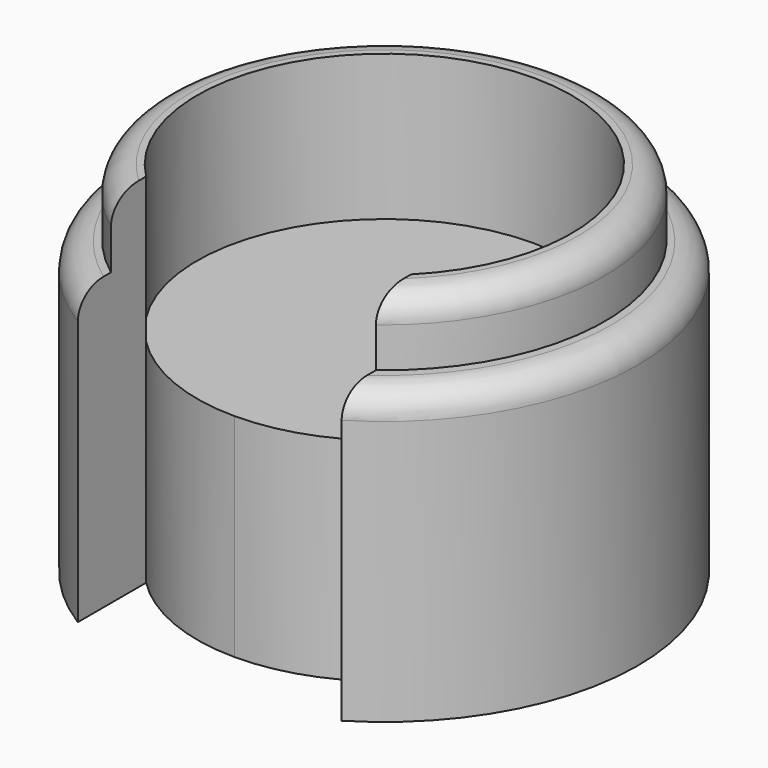
from build123d import *

# Parameters (mm, degrees)
F0_R     = 48.41875
F1_DEPTH = 55.5625
F2_R     = 42.06875
F3_DEPTH = 12.7
F4_R     = 35.71875
F5_DEPTH = 27.78125
F6_R     = 5.08
F8_DEPTH = 100.076


with BuildPart() as f1:
    # F0 (on Top) → F1 (new body)
    with BuildSketch(Plane.XY):
        with Locations((0.225817, -0.361804)):
            Circle(F0_R)
    extrude(amount=F1_DEPTH)

    # F2 (on face) → F3 (join)
    with BuildSketch(Plane.XY.offset(55.5625)):
        Circle(F2_R)
    extrude(amount=F3_DEPTH)

    # F4 (on face) → F5 (cut)
    with BuildSketch(Plane.XY.offset(68.2625)):
        Circle(F4_R)
    extrude(amount=-F5_DEPTH, mode=Mode.SUBTRACT)

    # F6
    f6_edges = [f1.edges().sort_by_distance(p)[0] for p in [
        (-48.192933, -0.361804, 55.5625),
        (-42.06875, 0, 68.2625),
    ]]
    fillet(f6_edges, radius=F6_R)

    # F7 (on Top) → F8 (cut)
    with BuildSketch(Plane.XY):
        with BuildLine():
            Line((25.284194, -55.836208), (25.284194, -25.229717))
            ThreePointArc((25.284194, -25.229717), (13.686766, -32.992447), (0, -35.71875))
            Line((0, -35.71875), (0, -55.836208))
            Line((0, -55.836208), (25.284194, -55.836208))
        make_face()
        with BuildLine():
            ThreePointArc((0, -35.71875), (-13.686766, -32.992447), (-25.284194, -25.229717))
            Line((-25.284194, -25.229717), (-25.284194, -55.836208))
            Line((-25.284194, -55.836208), (0, -55.836208))
            Line((0, -55.836208), (0, -35.71875))
        make_face()
    extrude(amount=F8_DEPTH, mode=Mode.SUBTRACT)


solid = f1.part
